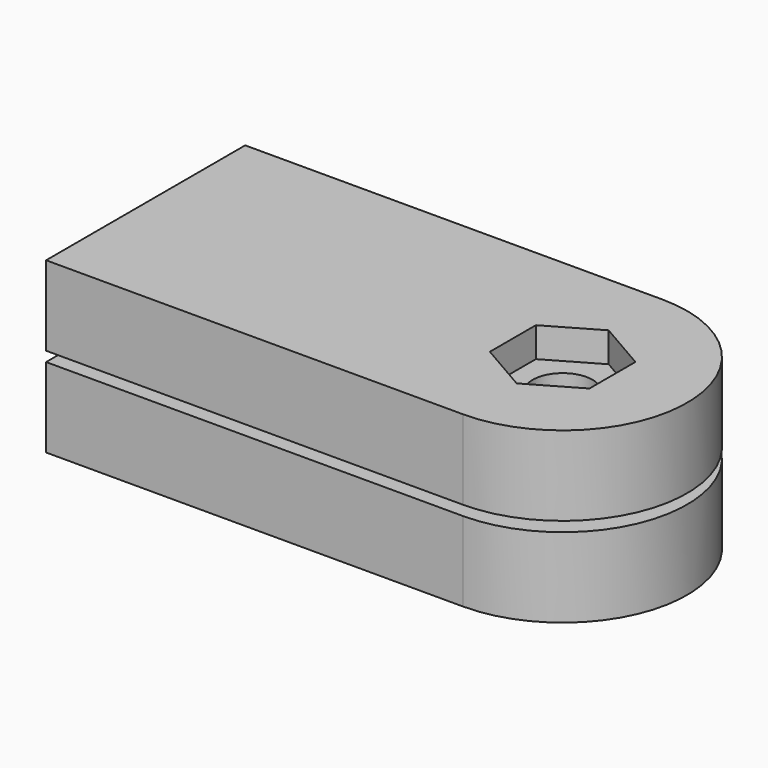
from build123d import *

# Parameters (mm, degrees)
F0_R      = 6
F1_DEPTH  = 8
F2_R      = 9.625
F3_DEPTH  = 3
F6_DEPTH  = 8
F7_R      = 3
F8_DEPTH  = 17.001
F10_DEPTH = 3


with BuildPart() as f1:
    # F0 (on Top) → F1 (new body)
    with BuildSketch(Plane.XY):
        with BuildLine():
            Line((-41.8894961476, -12.5), (0, -12.5))
            ThreePointArc((0, -12.5), (12.5, 0), (0, 12.5))
            Line((0, 12.5), (-41.8894961476, 12.5))
            Line((-41.8894961476, 12.5), (-41.8894961476, -12.5))
        make_face()
        Circle(F0_R, mode=Mode.SUBTRACT)
    extrude(amount=F1_DEPTH)

    # F2 (on face) → F3 (cut)
    with BuildSketch(Plane(origin=(0, 0, 0), x_dir=(1, 0, 0), z_dir=(0, 0, -1))):
        Circle(F2_R)
    extrude(amount=-F3_DEPTH, mode=Mode.SUBTRACT)


with BuildPart() as f6:
    # F5 (on offset) → F6 (new body)
    with BuildSketch(Plane.XY.offset(9)):
        with BuildLine():
            ThreePointArc((0, -12.5), (12.5, 0), (0, 12.5))
            Line((0, 12.5), (-41.8894961476, 12.5))
            Line((-41.8894961476, 12.5), (-41.8894961476, -12.5))
            Line((-41.8894961476, -12.5), (0, -12.5))
        make_face()
    extrude(amount=F6_DEPTH)

    # F7 (on face) → F8 (cut, through all)
    with BuildSketch(Plane.XY.offset(17)):
        Circle(F7_R)
    extrude(amount=-F8_DEPTH, mode=Mode.SUBTRACT)

    # F9 (on face) → F10 (cut)
    with BuildSketch(Plane.XY.offset(17)):
        Polygon((5, -2.8867513459), (5, 2.8867513459), (0, 5.7735026919), (-5, 2.8867513459), (-5, -2.8867513459), (0, -5.7735026919), align=None)
    extrude(amount=-F10_DEPTH, mode=Mode.SUBTRACT)


solid = Compound([f1.part, f6.part])
